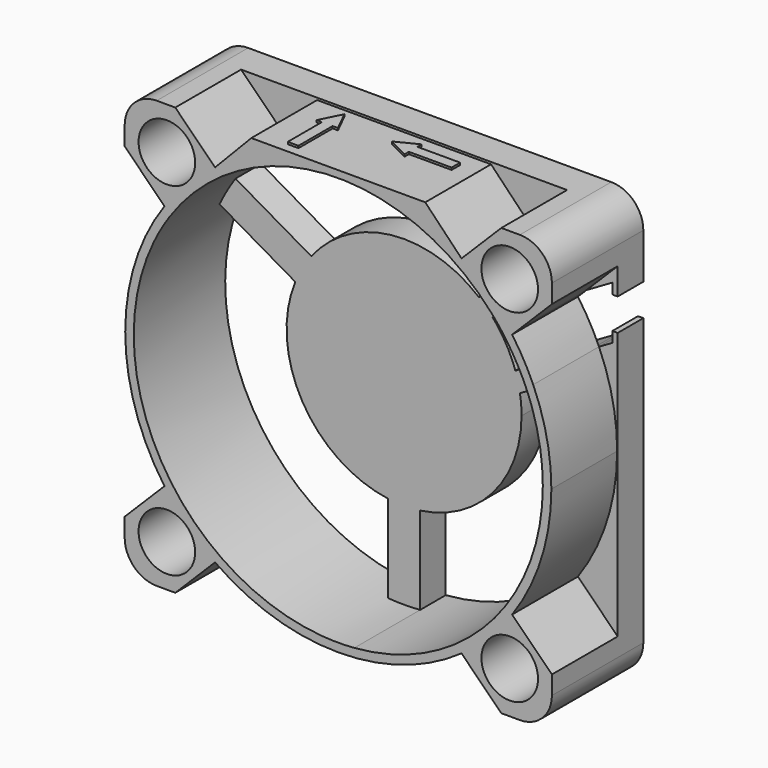
from build123d import *

# Parameters (mm, degrees)
F0_R     = 2.65
F0_R_2   = 1.5
F1_DEPTH = 3
F2_DEPTH = 10.7
F3_DEPTH = 3
F4_R     = 3
F5_W     = 2
F5_H     = 7.7
F5_W_2   = 15.9
F6_DEPTH = 0.2


with BuildPart() as f1:
    # F0 (on Front) → F1 (new body)
    with BuildSketch(Plane.XZ):
        with BuildLine():
            ThreePointArc((-16.2752810298, -11.5376655958), (-19.95, 0), (-16.2752810298, 11.5376655958))
            Line((-16.2752810298, 11.5376655958), (-20, 15.2623845661))
            Line((-20, 15.2623845661), (-20, -15.2623845661))
            Line((-20, -15.2623845661), (-16.2752810298, -11.5376655958))
        make_face()
        with BuildLine():
            ThreePointArc((16.1015828965, 11.7788593772), (14.0013023046, 14.2114754257), (11.5376655958, 16.2752810298))
            ThreePointArc((11.5376655958, 16.2752810298), (0, 19.95), (-11.5376655958, 16.2752810298))
            ThreePointArc((-11.5376655958, 16.2752810298), (-14.1067802847, 14.1067802847), (-16.2752810298, 11.5376655958))
            ThreePointArc((-16.2752810298, 11.5376655958), (-19.95, 0), (-16.2752810298, -11.5376655958))
            ThreePointArc((-16.2752810298, -11.5376655958), (-14.1067802847, -14.1067802847), (-11.5376655958, -16.2752810298))
            ThreePointArc((-11.5376655958, -16.2752810298), (0, -19.95), (11.5376655958, -16.2752810298))
            ThreePointArc((11.5376655958, -16.2752810298), (14.1067802847, -14.1067802847), (16.2752810298, -11.5376655958))
            ThreePointArc((16.2752810298, -11.5376655958), (19.0091340748, -6.0543638582), (19.95, 0))
            ThreePointArc((19.95, 0), (19.5207784013, 4.1160309289), (18.2515828965, 8.0549501409))
            Line((18.2515828965, 8.0549501409), (17.5545327604, 7.6525080572))
            ThreePointArc((17.5545327604, 7.6525080572), (17.8807178068, 6.8558318761), (18.1707686799, 6.0453011159))
            ThreePointArc((18.1707686799, 6.0453011159), (18.9036070661, 3.0620483161), (19.15, 0))
            ThreePointArc((19.15, 0), (14.0614277369, -12.999951923), (1.5, -19.0911628771))
            ThreePointArc((1.5, -19.0911628771), (0, -19.15), (-1.5, -19.0911628771))
            ThreePointArc((-1.5, -19.0911628771), (-16.5843864825, -9.575), (-17.2834320394, 8.2465433329))
            ThreePointArc((-17.2834320394, 8.2465433329), (-16.5843864825, 9.575), (-15.7834320394, 10.8446195442))
            ThreePointArc((-15.7834320394, 10.8446195442), (-1.1866795704, 19.1131967917), (14.3207686799, 12.7136967251))
            ThreePointArc((14.3207686799, 12.7136967251), (14.8776834722, 12.0572399206), (15.4045327604, 11.3764172935))
            Line((15.4045327604, 11.3764172935), (16.1015828965, 11.7788593772))
        make_face()
        with BuildLine():
            ThreePointArc((-16.2752810298, 11.5376655958), (-14.1067802847, 14.1067802847), (-11.5376655958, 16.2752810298))
            Line((-11.5376655958, 16.2752810298), (-15.2623845661, 20))
            Line((-15.2623845661, 20), (-20, 20))
            Line((-20, 20), (-20, 15.2623845661))
            Line((-20, 15.2623845661), (-16.2752810298, 11.5376655958))
        make_face()
        with Locations((-16.0513239329, 16.0513239329)):
            Circle(F0_R, mode=Mode.SUBTRACT)
        Polygon((-11.5376655958, 16.2752810298), (-7.95, 20), (-15.2623845661, 20), align=None)
        with BuildLine():
            Line((11.5376655958, 16.2752810298), (7.95, 20))
            Line((7.95, 20), (-7.95, 20))
            Line((-7.95, 20), (-11.5376655958, 16.2752810298))
            ThreePointArc((-11.5376655958, 16.2752810298), (0, 19.95), (11.5376655958, 16.2752810298))
        make_face()
        Polygon((11.5376655958, 16.2752810298), (15.2623845661, 20), (7.95, 20), align=None)
        with BuildLine():
            Line((20, 15.2623845661), (20, 20))
            Line((20, 20), (15.2623845661, 20))
            Line((15.2623845661, 20), (11.5376655958, 16.2752810298))
            ThreePointArc((11.5376655958, 16.2752810298), (14.0013023046, 14.2114754257), (16.1015828965, 11.7788593772))
            Line((16.1015828965, 11.7788593772), (17.0832277064, 12.3456122724))
            Line((17.0832277064, 12.3456122724), (20, 15.2623845661))
        make_face()
        with Locations((16.0513239329, 16.0513239329)):
            Circle(F0_R, mode=Mode.SUBTRACT)
        with Locations((-16.0513239329, 16.0513239329)):
            Circle(F0_R)
        with Locations((-16.0513239329, 16.0513239329)):
            Circle(F0_R_2, mode=Mode.SUBTRACT)
        with Locations((16.0513239329, 16.0513239329)):
            Circle(F0_R)
        with Locations((16.0513239329, 16.0513239329)):
            Circle(F0_R_2, mode=Mode.SUBTRACT)
        with BuildLine():
            Line((-8.6872930441, 6.7476617851), (-15.7834320394, 10.8446195442))
            ThreePointArc((-15.7834320394, 10.8446195442), (-16.5843864825, 9.575), (-17.2834320394, 8.2465433329))
            Line((-17.2834320394, 8.2465433329), (-10.1872930441, 4.1495855737))
            ThreePointArc((-10.1872930441, 4.1495855737), (-9.5262794416, 5.5), (-8.6872930441, 6.7476617851))
        make_face()
        with BuildLine():
            ThreePointArc((8.6872930441, 6.7476617851), (8.481225936, 7.0049130346), (8.2675438185, 7.2558748066))
            ThreePointArc((8.2675438185, 7.2558748066), (7.6578946474, 7.8966226685), (6.9987394068, 8.4863211532))
            ThreePointArc((6.9987394068, 8.4863211532), (-1.2118322682, 10.9330445235), (-8.6872930441, 6.7476617851))
            ThreePointArc((-8.6872930441, 6.7476617851), (-9.5262794416, 5.5), (-10.1872930441, 4.1495855737))
            ThreePointArc((-10.1872930441, 4.1495855737), (-9.5262794416, -5.5), (-1.5, -10.8972473589))
            ThreePointArc((-1.5, -10.8972473589), (0, -11), (1.5, -10.8972473589))
            ThreePointArc((1.5, -10.8972473589), (8.2915619759, -7.2284161474), (11, 0))
            ThreePointArc((11, 0), (10.9621196279, 0.9121037566), (10.8487394068, 1.8179255441))
            ThreePointArc((10.8487394068, 1.8179255441), (10.6676231587, 2.6836199699), (10.4175438185, 3.5319655704))
            ThreePointArc((10.4175438185, 3.5319655704), (10.3070456073, 3.8425005985), (10.1872930441, 4.1495855737))
            ThreePointArc((10.1872930441, 4.1495855737), (9.5262794416, 5.5), (8.6872930441, 6.7476617851))
        make_face()
        with BuildLine():
            Line((8.2675438185, 7.2558748066), (15.4045327604, 11.3764172935))
            ThreePointArc((15.4045327604, 11.3764172935), (14.8776834722, 12.0572399206), (14.3207686799, 12.7136967251))
            Line((14.3207686799, 12.7136967251), (6.9987394068, 8.4863211532))
            ThreePointArc((6.9987394068, 8.4863211532), (7.6578946474, 7.8966226685), (8.2675438185, 7.2558748066))
        make_face()
        with BuildLine():
            ThreePointArc((18.1707686799, 6.0453011159), (17.8807178068, 6.8558318761), (17.5545327604, 7.6525080572))
            Line((17.5545327604, 7.6525080572), (10.4175438185, 3.5319655704))
            ThreePointArc((10.4175438185, 3.5319655704), (10.6676231587, 2.6836199699), (10.8487394068, 1.8179255441))
            Line((10.8487394068, 1.8179255441), (18.1707686799, 6.0453011159))
        make_face()
        with BuildLine():
            Line((19.5, 8.7757240917), (18.2515828965, 8.0549501409))
            ThreePointArc((18.2515828965, 8.0549501409), (19.5207784013, 4.1160309289), (19.95, 0))
            ThreePointArc((19.95, 0), (19.0091340748, -6.0543638582), (16.2752810298, -11.5376655958))
            Line((16.2752810298, -11.5376655958), (20, -15.2623845661))
            Line((20, -15.2623845661), (20, 9.0643992263))
            Line((20, 9.0643992263), (19.5, 8.7757240917))
        make_face()
        Polygon((20, 14.0296115413), (20, 15.2623845661), (17.0832277064, 12.3456122724), (19.5, 13.7409364067), align=None)
        Polygon((20, 12.7583302492), (20, 14.0296115413), (19.5, 13.7409364067), (19.5, 12.7583302492), align=None)
        Polygon((20, 9.0643992263), (20, 9.7583302492), (19.5, 9.7583302492), (19.5, 8.7757240917), align=None)
        with BuildLine():
            Line((16.2752810298, 11.5376655958), (17.0832277064, 12.3456122724))
            Line((17.0832277064, 12.3456122724), (16.1015828965, 11.7788593772))
            ThreePointArc((16.1015828965, 11.7788593772), (16.1888811545, 11.6585859762), (16.2752810298, 11.5376655958))
        make_face()
        with BuildLine():
            Line((20, -20), (20, -15.2623845661))
            Line((20, -15.2623845661), (16.2752810298, -11.5376655958))
            ThreePointArc((16.2752810298, -11.5376655958), (14.1067802847, -14.1067802847), (11.5376655958, -16.2752810298))
            Line((11.5376655958, -16.2752810298), (15.2623845661, -20))
            Line((15.2623845661, -20), (20, -20))
        make_face()
        with Locations((16.0513239329, -16.0513239329)):
            Circle(F0_R, mode=Mode.SUBTRACT)
        with BuildLine():
            ThreePointArc((11.5376655958, -16.2752810298), (0, -19.95), (-11.5376655958, -16.2752810298))
            Line((-11.5376655958, -16.2752810298), (-15.2623845661, -20))
            Line((-15.2623845661, -20), (15.2623845661, -20))
            Line((15.2623845661, -20), (11.5376655958, -16.2752810298))
        make_face()
        with BuildLine():
            ThreePointArc((-11.5376655958, -16.2752810298), (-14.1067802847, -14.1067802847), (-16.2752810298, -11.5376655958))
            Line((-16.2752810298, -11.5376655958), (-20, -15.2623845661))
            Line((-20, -15.2623845661), (-20, -20))
            Line((-20, -20), (-15.2623845661, -20))
            Line((-15.2623845661, -20), (-11.5376655958, -16.2752810298))
        make_face()
        with Locations((-16.0513239329, -16.0513239329)):
            Circle(F0_R, mode=Mode.SUBTRACT)
        with Locations((-16.0513239329, -16.0513239329)):
            Circle(F0_R)
        with Locations((-16.0513239329, -16.0513239329)):
            Circle(F0_R_2, mode=Mode.SUBTRACT)
        with Locations((16.0513239329, -16.0513239329)):
            Circle(F0_R)
        with Locations((16.0513239329, -16.0513239329)):
            Circle(F0_R_2, mode=Mode.SUBTRACT)
        with BuildLine():
            Line((-1.5, -10.8972473589), (-1.5, -19.0911628771))
            ThreePointArc((-1.5, -19.0911628771), (0, -19.15), (1.5, -19.0911628771))
            Line((1.5, -19.0911628771), (1.5, -10.8972473589))
            ThreePointArc((1.5, -10.8972473589), (0, -11), (-1.5, -10.8972473589))
        make_face()
    extrude(amount=F1_DEPTH)

    # F0 (on Front) → F2 (join)
    with BuildSketch(Plane.XZ):
        with BuildLine():
            Line((20, 15.2623845661), (20, 20))
            Line((20, 20), (15.2623845661, 20))
            Line((15.2623845661, 20), (11.5376655958, 16.2752810298))
            ThreePointArc((11.5376655958, 16.2752810298), (14.0013023046, 14.2114754257), (16.1015828965, 11.7788593772))
            Line((16.1015828965, 11.7788593772), (17.0832277064, 12.3456122724))
            Line((17.0832277064, 12.3456122724), (20, 15.2623845661))
        make_face()
        with Locations((16.0513239329, 16.0513239329)):
            Circle(F0_R, mode=Mode.SUBTRACT)
        with BuildLine():
            Line((11.5376655958, 16.2752810298), (7.95, 20))
            Line((7.95, 20), (-7.95, 20))
            Line((-7.95, 20), (-11.5376655958, 16.2752810298))
            ThreePointArc((-11.5376655958, 16.2752810298), (0, 19.95), (11.5376655958, 16.2752810298))
        make_face()
        with BuildLine():
            ThreePointArc((-16.2752810298, 11.5376655958), (-14.1067802847, 14.1067802847), (-11.5376655958, 16.2752810298))
            Line((-11.5376655958, 16.2752810298), (-15.2623845661, 20))
            Line((-15.2623845661, 20), (-20, 20))
            Line((-20, 20), (-20, 15.2623845661))
            Line((-20, 15.2623845661), (-16.2752810298, 11.5376655958))
        make_face()
        with Locations((-16.0513239329, 16.0513239329)):
            Circle(F0_R, mode=Mode.SUBTRACT)
        with BuildLine():
            ThreePointArc((16.1015828965, 11.7788593772), (14.0013023046, 14.2114754257), (11.5376655958, 16.2752810298))
            ThreePointArc((11.5376655958, 16.2752810298), (0, 19.95), (-11.5376655958, 16.2752810298))
            ThreePointArc((-11.5376655958, 16.2752810298), (-14.1067802847, 14.1067802847), (-16.2752810298, 11.5376655958))
            ThreePointArc((-16.2752810298, 11.5376655958), (-19.95, 0), (-16.2752810298, -11.5376655958))
            ThreePointArc((-16.2752810298, -11.5376655958), (-14.1067802847, -14.1067802847), (-11.5376655958, -16.2752810298))
            ThreePointArc((-11.5376655958, -16.2752810298), (0, -19.95), (11.5376655958, -16.2752810298))
            ThreePointArc((11.5376655958, -16.2752810298), (14.1067802847, -14.1067802847), (16.2752810298, -11.5376655958))
            ThreePointArc((16.2752810298, -11.5376655958), (19.0091340748, -6.0543638582), (19.95, 0))
            ThreePointArc((19.95, 0), (19.5207784013, 4.1160309289), (18.2515828965, 8.0549501409))
            Line((18.2515828965, 8.0549501409), (17.5545327604, 7.6525080572))
            ThreePointArc((17.5545327604, 7.6525080572), (17.8807178068, 6.8558318761), (18.1707686799, 6.0453011159))
            ThreePointArc((18.1707686799, 6.0453011159), (18.9036070661, 3.0620483161), (19.15, 0))
            ThreePointArc((19.15, 0), (14.0614277369, -12.999951923), (1.5, -19.0911628771))
            ThreePointArc((1.5, -19.0911628771), (0, -19.15), (-1.5, -19.0911628771))
            ThreePointArc((-1.5, -19.0911628771), (-16.5843864825, -9.575), (-17.2834320394, 8.2465433329))
            ThreePointArc((-17.2834320394, 8.2465433329), (-16.5843864825, 9.575), (-15.7834320394, 10.8446195442))
            ThreePointArc((-15.7834320394, 10.8446195442), (-1.1866795704, 19.1131967917), (14.3207686799, 12.7136967251))
            ThreePointArc((14.3207686799, 12.7136967251), (14.8776834722, 12.0572399206), (15.4045327604, 11.3764172935))
            Line((15.4045327604, 11.3764172935), (16.1015828965, 11.7788593772))
        make_face()
        with BuildLine():
            ThreePointArc((16.2752810298, 11.5376655958), (16.1888811545, 11.6585859762), (16.1015828965, 11.7788593772))
            Line((16.1015828965, 11.7788593772), (15.4045327604, 11.3764172935))
            ThreePointArc((15.4045327604, 11.3764172935), (15.5962492061, 11.1121334901), (15.7834320394, 10.8446195442))
            ThreePointArc((15.7834320394, 10.8446195442), (16.5843864825, 9.575), (17.2834320394, 8.2465433329))
            ThreePointArc((17.2834320394, 8.2465433329), (17.4215144957, 7.9506812712), (17.5545327604, 7.6525080572))
            Line((17.5545327604, 7.6525080572), (18.2515828965, 8.0549501409))
            ThreePointArc((18.2515828965, 8.0549501409), (17.351034836, 9.8460189985), (16.2752810298, 11.5376655958))
        make_face()
        with BuildLine():
            Line((20, -20), (20, -15.2623845661))
            Line((20, -15.2623845661), (16.2752810298, -11.5376655958))
            ThreePointArc((16.2752810298, -11.5376655958), (14.1067802847, -14.1067802847), (11.5376655958, -16.2752810298))
            Line((11.5376655958, -16.2752810298), (15.2623845661, -20))
            Line((15.2623845661, -20), (20, -20))
        make_face()
        with Locations((16.0513239329, -16.0513239329)):
            Circle(F0_R, mode=Mode.SUBTRACT)
        with BuildLine():
            ThreePointArc((-11.5376655958, -16.2752810298), (-14.1067802847, -14.1067802847), (-16.2752810298, -11.5376655958))
            Line((-16.2752810298, -11.5376655958), (-20, -15.2623845661))
            Line((-20, -15.2623845661), (-20, -20))
            Line((-20, -20), (-15.2623845661, -20))
            Line((-15.2623845661, -20), (-11.5376655958, -16.2752810298))
        make_face()
        with Locations((-16.0513239329, -16.0513239329)):
            Circle(F0_R, mode=Mode.SUBTRACT)
        with BuildLine():
            Line((16.2752810298, 11.5376655958), (17.0832277064, 12.3456122724))
            Line((17.0832277064, 12.3456122724), (16.1015828965, 11.7788593772))
            ThreePointArc((16.1015828965, 11.7788593772), (16.1888811545, 11.6585859762), (16.2752810298, 11.5376655958))
        make_face()
    extrude(amount=F2_DEPTH)

    # F0 (on Front) → F3 (cut, through all)
    with BuildSketch(Plane.XZ):
        with BuildLine():
            ThreePointArc((16.2752810298, 11.5376655958), (16.1888811545, 11.6585859762), (16.1015828965, 11.7788593772))
            Line((16.1015828965, 11.7788593772), (15.4045327604, 11.3764172935))
            ThreePointArc((15.4045327604, 11.3764172935), (15.5962492061, 11.1121334901), (15.7834320394, 10.8446195442))
            ThreePointArc((15.7834320394, 10.8446195442), (16.5843864825, 9.575), (17.2834320394, 8.2465433329))
            ThreePointArc((17.2834320394, 8.2465433329), (17.4215144957, 7.9506812712), (17.5545327604, 7.6525080572))
            Line((17.5545327604, 7.6525080572), (18.2515828965, 8.0549501409))
            ThreePointArc((18.2515828965, 8.0549501409), (17.351034836, 9.8460189985), (16.2752810298, 11.5376655958))
        make_face()
        with BuildLine():
            Line((16.2752810298, 11.5376655958), (17.0832277064, 12.3456122724))
            Line((17.0832277064, 12.3456122724), (16.1015828965, 11.7788593772))
            ThreePointArc((16.1015828965, 11.7788593772), (16.1888811545, 11.6585859762), (16.2752810298, 11.5376655958))
        make_face()
    extrude(amount=F3_DEPTH, mode=Mode.SUBTRACT)

    # F4
    f4_edges = [f1.edges().sort_by_distance(p)[0] for p in [
        (-20, -5.35, -20),
        (20, -5.35, -20),
        (20, -5.35, 20),
        (-20, -5.35, 20),
    ]]
    fillet(f4_edges, radius=F4_R)

    # F5 (on face) → F6 (cut)
    with BuildSketch(Plane.XY.offset(20)):
        with Locations((-8.95, -6.85)):
            Rectangle(F5_W, F5_H)
        with Locations((0, -6.85)):
            Rectangle(F5_W_2, F5_H)
        Polygon((-4.45, -9.8), (-5.45, -9.8), (-5.45, -5.8), (-5.95, -5.8), (-4.95, -3.8), (-3.95, -5.8), (-4.45, -5.8), align=None, mode=Mode.SUBTRACT)
        Polygon((6.45, -4.5), (6.45, -5.5), (2.45, -5.5), (2.45, -6), (0.45, -5), (2.45, -4), (2.45, -4.5), align=None, mode=Mode.SUBTRACT)
        with Locations((8.95, -6.85)):
            Rectangle(F5_W, F5_H)
    extrude(amount=-F6_DEPTH, mode=Mode.SUBTRACT)


solid = f1.part
